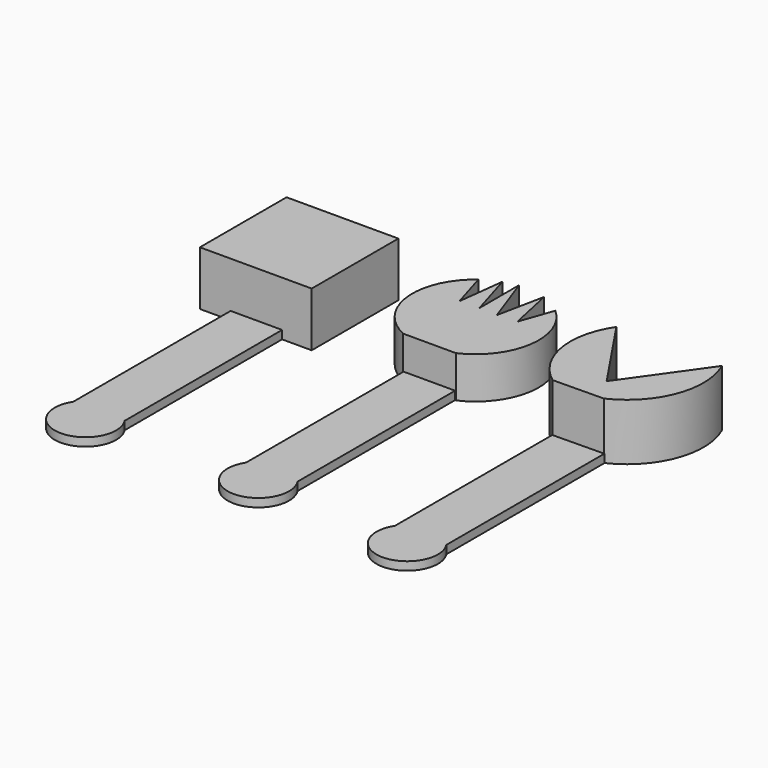
from build123d import *

# Parameters (mm, degrees)
F1_DEPTH  = 2.1
F3_DEPTH  = 2.1
F7_DEPTH  = 10.5
F6_W      = 28.175
F6_H      = 27.299998
F8_DEPTH  = 13.7
F9_DEPTH  = 2.1
F11_DEPTH = 14.3


with BuildPart() as f1:
    # F0 (on Top) → F1 (new body)
    with BuildSketch(Plane.XY):
        with BuildLine():
            Line((-4.8006, 32.004002), (-4.8006, -17.78))
            ThreePointArc((-4.8006, -17.78), (1.6891, -29.760286), (8.1788, -17.78))
            Line((8.1788, -17.78), (8.1788, 32.004002))
            Line((8.1788, 32.004002), (-4.8006, 32.004002))
        make_face()
    extrude(amount=F1_DEPTH)

    # F5 (on Top) → F7 (join)
    with BuildSketch(Plane.XY):
        with BuildLine():
            Line((-4.9, 31.850003), (8.400001, 31.850003))
            ThreePointArc((8.400001, 31.850003), (17.503072, 43.953521), (12.369412, 58.201559))
            Line((12.369412, 58.201559), (9.45, 49.875002))
            Line((9.45, 49.875002), (6.983557, 61.373044))
            Line((6.983557, 61.373044), (4.549999, 49.525004))
            Line((4.549999, 49.525004), (0.033156, 62.16446))
            ThreePointArc((0.033156, 62.16446), (0.016577, 62.162654), (0, 62.160831))
            Line((0, 62.160831), (0, 49.699999))
            Line((0, 49.699999), (-3.483556, 61.373044))
            Line((-3.483556, 61.373044), (-4.9, 49.525004))
            Line((-4.9, 49.525004), (-7.759687, 59.107528))
            ThreePointArc((-7.759687, 59.107528), (-14.093833, 44.664217), (-4.9, 31.850003))
        make_face()
    extrude(amount=F7_DEPTH)


with BuildPart() as f3:
    # F2 (on Top) → F3 (new body)
    with BuildSketch(Plane.XY):
        with BuildLine():
            Line((-47.561502, 30.972379), (-47.561502, -18.811624))
            ThreePointArc((-47.561502, -18.811624), (-41.071802, -30.79191), (-34.582102, -18.811624))
            Line((-34.582102, -18.811624), (-34.582102, 30.972379))
            Line((-34.582102, 30.972379), (-47.561502, 30.972379))
        make_face()
    extrude(amount=F3_DEPTH)

    # F6 (on Top) → F8 (join)
    with BuildSketch(Plane.XY):
        with Locations((-41.212501, 44.450001)):
            Rectangle(F6_W, F6_H)
    extrude(amount=F8_DEPTH)


with BuildPart() as f9:
    # F4 (on Top) → F9 (new body)
    with BuildSketch(Plane.XY):
        with BuildLine():
            Line((34.91028, 29.248873), (34.91028, -20.53513))
            ThreePointArc((34.91028, -20.53513), (41.39998, -32.515416), (47.88968, -20.53513))
            Line((47.88968, -20.53513), (47.88968, 29.248873))
            Line((47.88968, 29.248873), (34.91028, 29.248873))
        make_face()
    extrude(amount=F9_DEPTH)

    # F10 (on Top) → F11 (join)
    with BuildSketch(Plane.XY):
        with BuildLine():
            Line((43.575, 35.350002), (30.625002, 54.6))
            ThreePointArc((30.625002, 54.6), (27.688326, 40.947573), (35, 29.05))
            Line((35, 29.05), (47.775004, 29.225003))
            ThreePointArc((47.775004, 29.225003), (57.706449, 39.97355), (57.225004, 54.6))
            Line((57.225004, 54.6), (43.575, 35.350002))
        make_face()
    extrude(amount=F11_DEPTH)


solid = Compound([f1.part, f3.part, f9.part])
